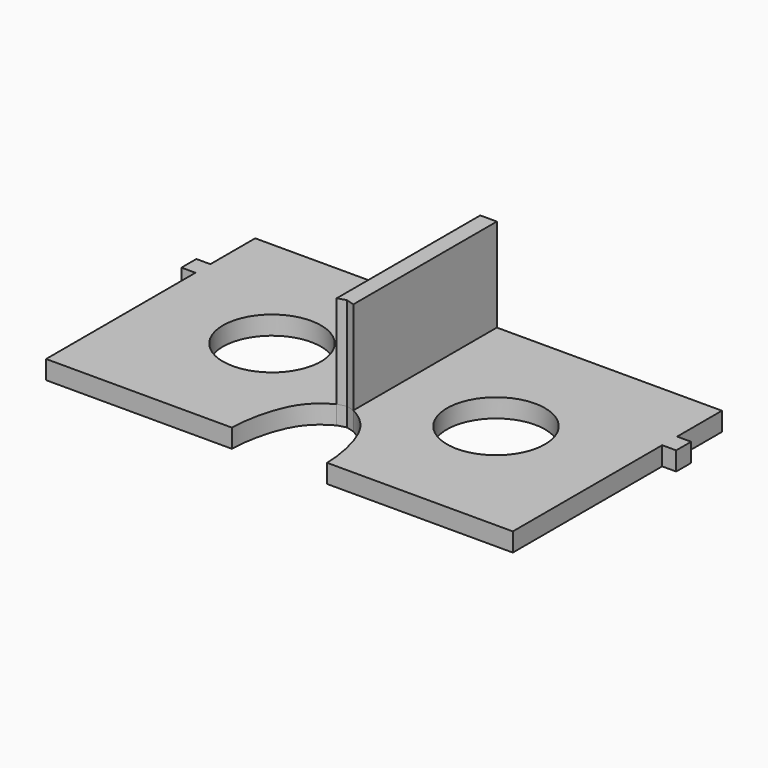
from build123d import *

# Parameters (mm, degrees)
F0_R     = 13.335
F1_DEPTH = 5.08
F2_DEPTH = 30.48


with BuildPart() as f1:
    # F0 (on Top) → F1 (new body)
    with BuildSketch(Plane.XY):
        with BuildLine():
            Line((-63.5, 0), (-63.5, -35.56))
            Line((-63.5, -35.56), (-12.9768723283, -35.56))
            add(Edge.make_bspline(
                [(-12.9768723283, -35.56), (-12.9768723283, -31.8482456286), (-10.8344948575, -17.6506955634), (-2.9344420293, -13.6049609884), (-2.2570529826, -13.2580599807)],
                knots=[0, 0, 0, 0, 0.4899533297, 0.8211604502, 0.8211604502, 0.8211604502, 0.8211604502], degree=3))
            Line((-2.2570529826, -13.2580599807), (-2.2570529826, 35.56))
            Line((-2.2570529826, 35.56), (-63.5, 35.56))
            Line((-63.5, 35.56), (-63.5, 20.32))
            Line((-63.5, 20.32), (-67.31, 20.32))
            Line((-67.31, 20.32), (-67.31, 15.24))
            Line((-67.31, 15.24), (-63.5, 15.24))
            Line((-63.5, 15.24), (-63.5, 0))
        make_face()
        with BuildLine():
            ThreePointArc((-17.145, 0), (-30.48, -13.335), (-43.815, 0))
            ThreePointArc((-43.815, 0), (-30.48, 13.335), (-17.145, 0))
        make_face(mode=Mode.SUBTRACT)
        with BuildLine():
            Line((-2.2570529826, 35.56), (-2.2570529826, -13.2580599807))
            add(Edge.make_bspline(
                [(-2.2570529826, -13.2580599807), (-1.8912880438, -13.0707463144), (-2.2570529826, -13.2580599807), (0, -12.597261928)],
                knots=[0.8211604502, 0.8211604502, 0.8211604502, 0.8211604502, 1, 1, 1, 1], degree=3))
            add(Edge.make_bspline(
                [(2.2570529826, -13.2580599807), (1.8912880438, -13.0707463144), (2.2570529826, -13.2580599807), (0, -12.597261928)],
                knots=[0.8211604502, 0.8211604502, 0.8211604502, 0.8211604502, 1, 1, 1, 1], degree=3))
            Line((2.2570529826, -13.2580599807), (2.2570529826, 35.56))
            Line((2.2570529826, 35.56), (-2.2570529826, 35.56))
        make_face()
        with BuildLine():
            Line((2.2570529826, 35.56), (2.2570529826, -13.2580599807))
            add(Edge.make_bspline(
                [(12.9768723283, -35.56), (12.9768723283, -31.8482456286), (10.8344948575, -17.6506955634), (2.9344420293, -13.6049609884), (2.2570529826, -13.2580599807)],
                knots=[0, 0, 0, 0, 0.4899533297, 0.8211604502, 0.8211604502, 0.8211604502, 0.8211604502], degree=3))
            Line((12.9768723283, -35.56), (63.5, -35.56))
            Line((63.5, -35.56), (63.5, 15.24))
            Line((63.5, 15.24), (67.31, 15.24))
            Line((67.31, 15.24), (67.31, 20.32))
            Line((67.31, 20.32), (63.5, 20.32))
            Line((63.5, 20.32), (63.5, 35.56))
            Line((63.5, 35.56), (2.2570529826, 35.56))
        make_face()
        with Locations((30.48, 0)):
            Circle(F0_R, mode=Mode.SUBTRACT)
    extrude(amount=F1_DEPTH)

    # F0 (on Top) → F2 (join)
    with BuildSketch(Plane.XY):
        with BuildLine():
            Line((-2.2570529826, 35.56), (-2.2570529826, -13.2580599807))
            add(Edge.make_bspline(
                [(-2.2570529826, -13.2580599807), (-1.8912880438, -13.0707463144), (-2.2570529826, -13.2580599807), (0, -12.597261928)],
                knots=[0.8211604502, 0.8211604502, 0.8211604502, 0.8211604502, 1, 1, 1, 1], degree=3))
            add(Edge.make_bspline(
                [(2.2570529826, -13.2580599807), (1.8912880438, -13.0707463144), (2.2570529826, -13.2580599807), (0, -12.597261928)],
                knots=[0.8211604502, 0.8211604502, 0.8211604502, 0.8211604502, 1, 1, 1, 1], degree=3))
            Line((2.2570529826, -13.2580599807), (2.2570529826, 35.56))
            Line((2.2570529826, 35.56), (-2.2570529826, 35.56))
        make_face()
    extrude(amount=F2_DEPTH)


solid = f1.part
